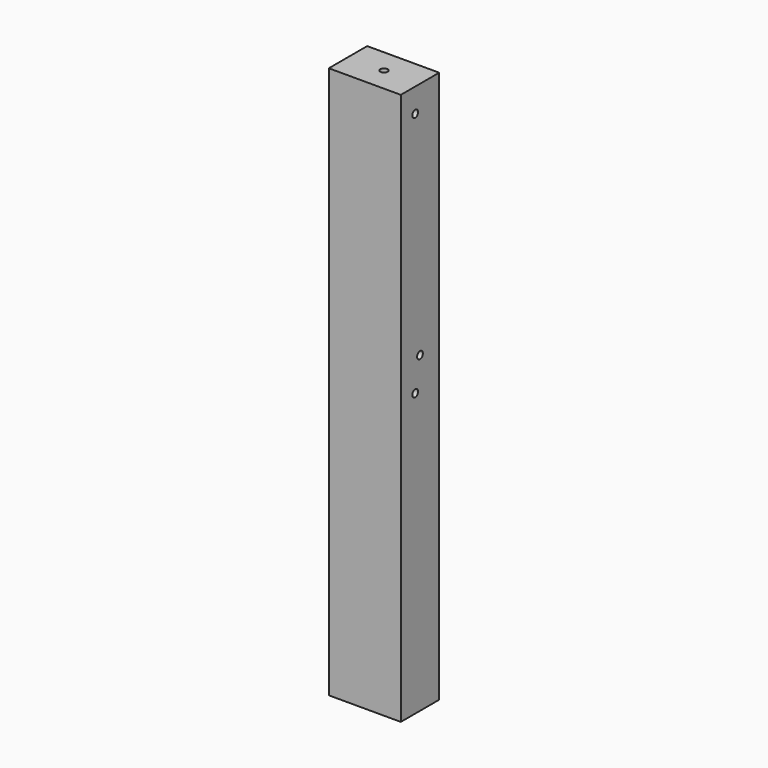
from build123d import *

# Parameters (mm, degrees)
F0_W      = 60
F0_H      = 40
F1_DEPTH  = 460
F2_R      = 3
F3_DEPTH  = 12
F4_R      = 3
F5_DEPTH  = 12
F6_R      = 3
F7_DEPTH  = 12
F8_R      = 3
F9_DEPTH  = 12
F10_R     = 3
F11_DEPTH = 12


with BuildPart() as f1:
    # F0 (on Top) → F1 (new body)
    with BuildSketch(Plane.XY):
        with Locations((30, 20)):
            Rectangle(F0_W, F0_H)
    extrude(amount=F1_DEPTH)

    # F2 (on face) → F3 (cut)
    with BuildSketch(Plane.XY.offset(460)):
        with Locations((30, 20)):
            Circle(F2_R)
    extrude(amount=-F3_DEPTH, mode=Mode.SUBTRACT)

    # F4 (on face) → F5 (cut)
    with BuildSketch(Plane(origin=(0, 0, 0), x_dir=(1, 0, 0), z_dir=(0, 0, -1))):
        with Locations((30, -20)):
            Circle(F4_R)
    extrude(amount=-F5_DEPTH, mode=Mode.SUBTRACT)

    # F6 (on face) → F7 (cut)
    with BuildSketch(Plane.YZ.offset(60)):
        with Locations((20, 261)):
            Circle(F6_R)
    extrude(amount=-F7_DEPTH, mode=Mode.SUBTRACT)

    # F8 (on face) → F9 (cut)
    with BuildSketch(Plane.YZ.offset(60)):
        with Locations((15, 440)):
            Circle(F8_R)
    extrude(amount=-F9_DEPTH, mode=Mode.SUBTRACT)

    # F10 (on face) → F11 (cut)
    with BuildSketch(Plane.YZ.offset(60)):
        with Locations((15, 235)):
            Circle(F10_R)
    extrude(amount=-F11_DEPTH, mode=Mode.SUBTRACT)


solid = f1.part
